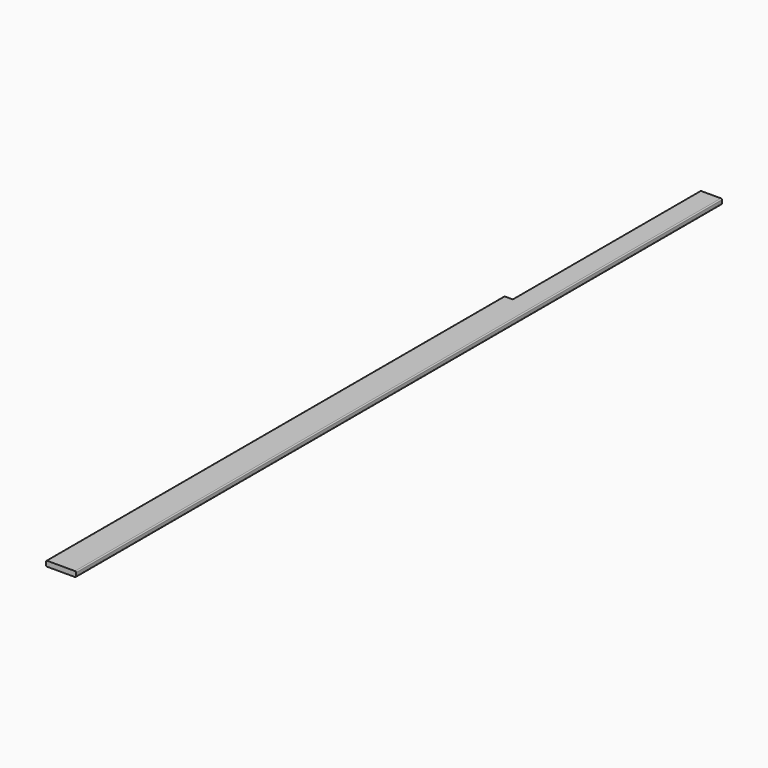
from build123d import *

# Parameters (mm, degrees)
F1_DEPTH = 1832.356
F2_W     = 261.454288
F2_H     = 1127.94232
F3_DEPTH = 23.877


with BuildPart() as f1:
    # F0 (on Front) → F1 (new body, symmetric)
    with BuildSketch(Plane.XZ):
        with BuildLine():
            Line((63.246, 11.938), (-63.246, 11.938))
            ThreePointArc((-63.246, 11.938), (-66.658497, 10.524497), (-68.072, 7.112))
            Line((-68.072, 7.112), (-68.072, -7.112))
            ThreePointArc((-68.072, -7.112), (-66.658497, -10.524497), (-63.246, -11.938))
            Line((-63.246, -11.938), (63.246, -11.938))
            ThreePointArc((63.246, -11.938), (66.658497, -10.524497), (68.072, -7.112))
            Line((68.072, -7.112), (68.072, 7.112))
            ThreePointArc((68.072, 7.112), (66.658497, 10.524497), (63.246, 11.938))
        make_face()
    extrude(amount=F1_DEPTH, both=True)

    # F2 (on face) → F3 (cut, through all)
    with BuildSketch(Plane.XY.offset(11.938)):
        with Locations((-158.362344, 1329.52716)):
            Rectangle(F2_W, F2_H)
    extrude(amount=-F3_DEPTH, mode=Mode.SUBTRACT)


solid = f1.part
